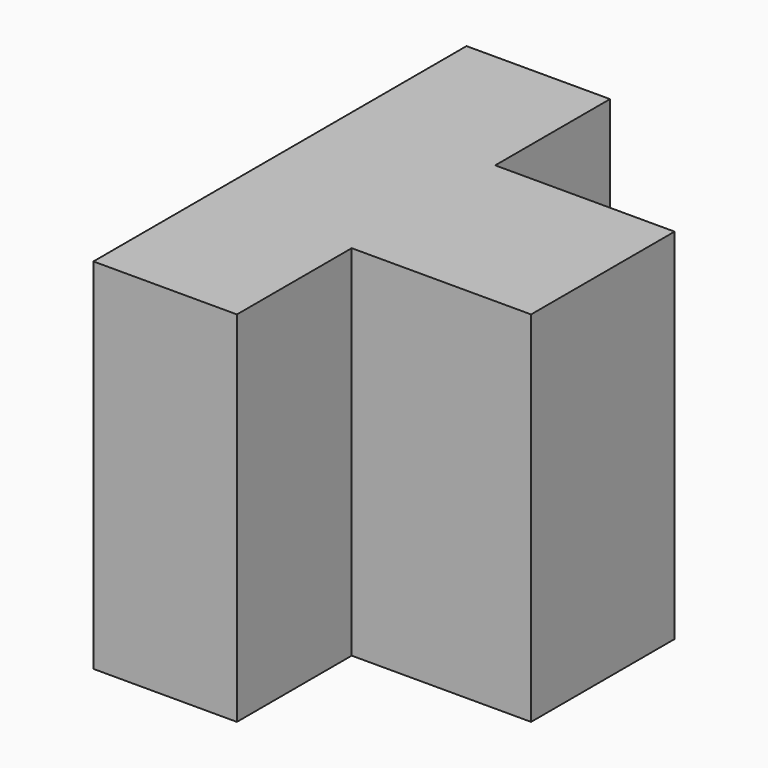
from build123d import *

# Parameters (mm, degrees)
BOX028_W               = 1
BOX028_H               = 5
BOX028_DEPTH           = 10
BOX027_W               = 13
BOX027_H               = 15
BOX027_DEPTH           = 10
BOX026_W               = 4
BOX026_H               = 4
BOX026_DEPTH           = 17
BOX025_W               = 4
BOX025_H               = 4
BOX025_DEPTH           = 17
BOX024_W               = 8
BOX024_H               = 13
BOX024_DEPTH           = 13
CUT025_PLACEMENT_ANGLE = 180


with BuildPart() as cubo028:
    # Box028 → Box028 (new body)
    with BuildSketch(Plane(origin=(49, 4, 0), x_dir=(1, 0, 0), z_dir=(0, 0, 1))):
        with Locations((0.5, 2.5)):
            Rectangle(BOX028_W, BOX028_H)
    extrude(amount=BOX028_DEPTH)


with BuildPart() as cubo027:
    # Box027 → Box027 (new body)
    with BuildSketch(Plane(origin=(38, -1, 10), x_dir=(1, 0, 0), z_dir=(0, 0, 1))):
        with Locations((6.5, 7.5)):
            Rectangle(BOX027_W, BOX027_H)
    extrude(amount=BOX027_DEPTH)


with BuildPart() as cubo026:
    # Box026 → Box026 (new body)
    with BuildSketch(Plane(origin=(0, 9, 0), x_dir=(1, 0, 0), z_dir=(0, 0, 1))):
        with Locations((2, 2)):
            Rectangle(BOX026_W, BOX026_H)
    extrude(amount=BOX026_DEPTH)


with BuildPart() as cubo025:
    # Box025 → Box025 (new body)
    with BuildSketch(Plane.XY):
        with Locations((2, 2)):
            Rectangle(BOX025_W, BOX025_H)
    extrude(amount=BOX025_DEPTH)


with BuildPart() as obj1:
    # Box024 → Box024 (new body)
    with BuildSketch(Plane.XY):
        with Locations((4, 6.5)):
            Rectangle(BOX024_W, BOX024_H)
    extrude(amount=BOX024_DEPTH)

    # Cut024: cut Cubo025
    add(cubo025.part, mode=Mode.SUBTRACT)

    # Cut025: cut Cubo026
    add(cubo026.part, mode=Mode.SUBTRACT)


with BuildPart() as obj1_1:
    # Cut025 placement: moved
    add(obj1.part.moved(Location((50, 13, 0))).rotate(Axis((50, 13, 0), (0, 0, 1)), CUT025_PLACEMENT_ANGLE))

    # Cut026: cut Cubo027
    add(cubo027.part, mode=Mode.SUBTRACT)


with BuildPart() as obj1_2:
    # Cut026 placement: moved
    add(obj1_1.part.moved(Location((-1, 0, 0))))

    # Fusion014: union Cubo028
    add(cubo028.part)


solid = obj1_2.part
